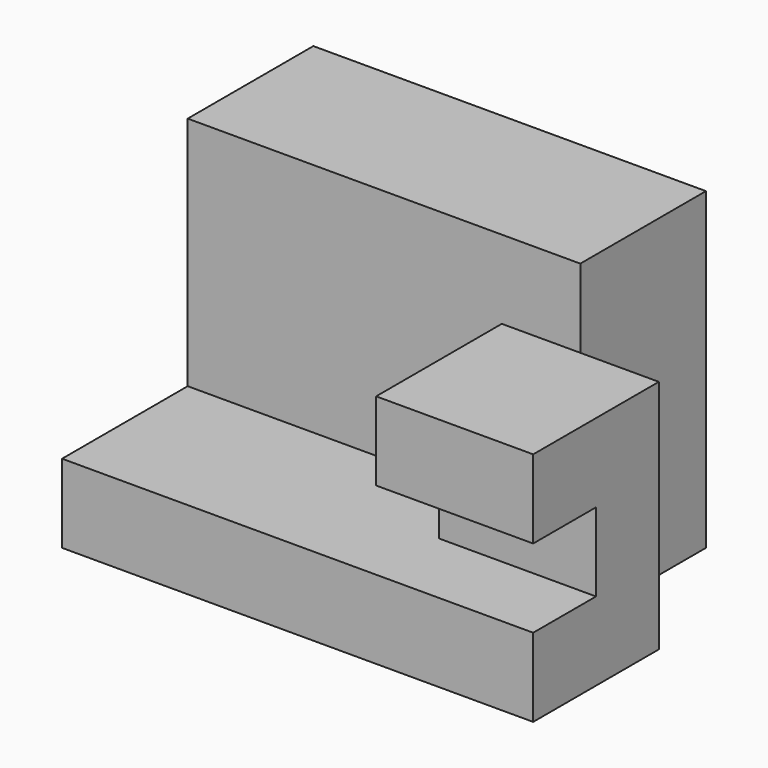
from build123d import *

# Parameters (mm, degrees)
F0_W     = 50
F0_H     = 40
F1_DEPTH = 20
F2_W     = 50
F2_H     = 10
F2_W_2   = 10
F3_DEPTH = 20
F5_DEPTH = 20


with BuildPart() as f1:
    # F0 (on Front) → F1 (new body)
    with BuildSketch(Plane.XZ):
        with Locations((25, 20)):
            Rectangle(F0_W, F0_H)
    extrude(amount=F1_DEPTH)

    # F2 (on face) → F3 (join)
    with BuildSketch(Plane.XZ.offset(20)):
        with Locations((25, 5)):
            Rectangle(F2_W, F2_H)
        with Locations((55, 5)):
            Rectangle(F2_W_2, F2_H)
    extrude(amount=F3_DEPTH)

    # F4 (on face) → F5 (join)
    with BuildSketch(Plane.YZ.offset(60)):
        Polygon((-30, 20), (-30, 10), (-20, 10), (-20, 30), (-40, 30), (-40, 20), align=None)
    extrude(amount=-F5_DEPTH)


solid = f1.part
